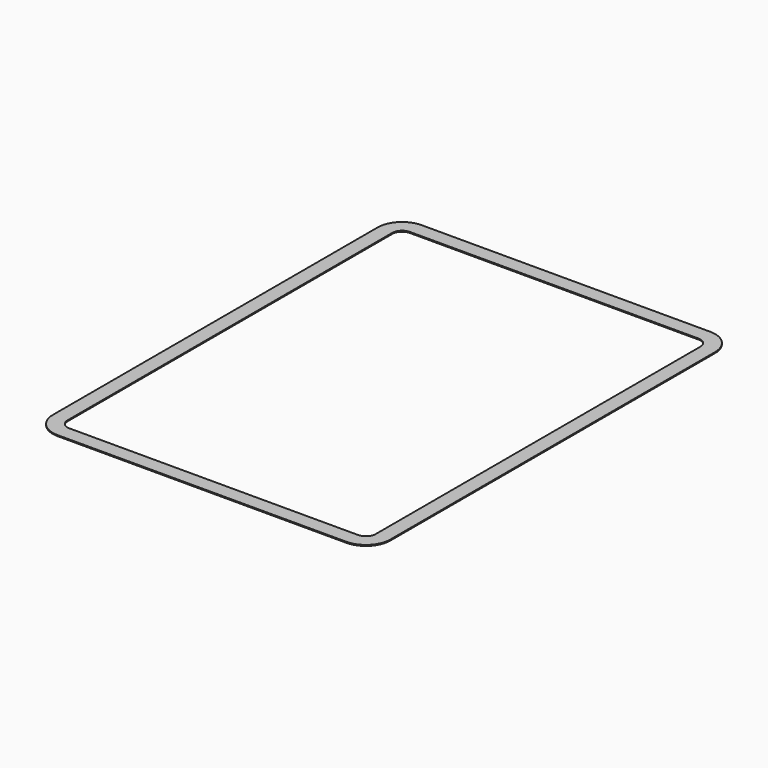
from build123d import *

# Parameters (mm, degrees)
PAD_DEPTH = 0.4


with BuildPart() as part:
    # Sketch → Pad (new body)
    with BuildSketch(Plane.XY):
        with BuildLine():
            ThreePointArc((-59, 93), (-66.071068, 90.071068), (-69, 83))
            Line((-69, -83), (-69, 83))
            ThreePointArc((-69, -83), (-66.071068, -90.071068), (-59, -93))
            Line((59, -93), (-59, -93))
            ThreePointArc((59, -93), (66.071068, -90.071068), (69, -83))
            Line((69, 83), (69, -83))
            ThreePointArc((69, 83), (66.071068, 90.071068), (59, 93))
            Line((-59, 93), (59, 93))
        make_face()
        with BuildLine():
            ThreePointArc((-59, 87), (-61.828427, 85.828427), (-63, 83))
            Line((-63, -83), (-63, 83))
            ThreePointArc((-63, -83), (-61.828427, -85.828427), (-59, -87))
            Line((59, -87), (-59, -87))
            ThreePointArc((59, -87), (61.828427, -85.828427), (63, -83))
            Line((63, 83), (63, -83))
            ThreePointArc((63, 83), (61.828427, 85.828427), (59, 87))
            Line((-59, 87), (59, 87))
        make_face(mode=Mode.SUBTRACT)
    extrude(amount=PAD_DEPTH)


solid = part.part
